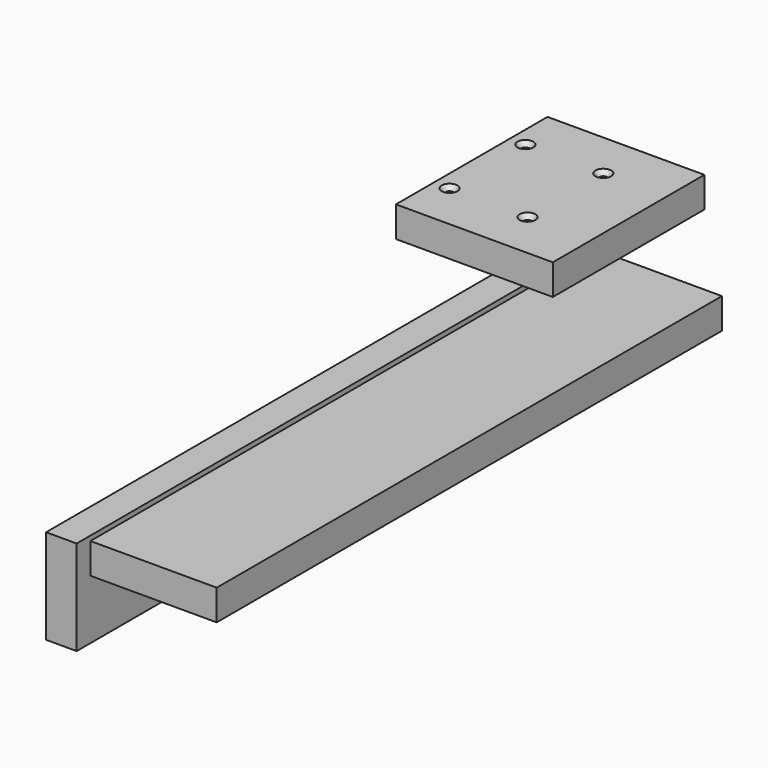
from build123d import *

# Parameters (mm, degrees)
F0_W           = 12.2936
F0_H           = 38.1
F0_W_2         = 50.8
F0_H_2         = 12.2936
F1_DEPTH       = 254
F0_W_3         = 63.0936
F2_DEPTH       = 76.2
F4_D           = 3.175
F4_DEPTH       = 12.7
F4_CSINK_D     = 6.35
F4_CSINK_ANGLE = 82
F6_D           = 3.175
F6_DEPTH       = 12.7
F6_CSINK_D     = 6.35
F6_CSINK_ANGLE = 82


with BuildPart() as f1:
    # F0 (on Front) → F1 (new body)
    with BuildSketch(Plane.XZ):
        with Locations((-34.314467, -21.732634)):
            Rectangle(F0_W, F0_H)
        with Locations((2.762182, -6.1468)):
            Rectangle(F0_W_2, F0_H_2)
    extrude(amount=F1_DEPTH)

    # F4
    with Locations(Plane(origin=(-40.461267, 0, 0), x_dir=(0, -1, 0), z_dir=(-1, 0, 0))):
        with Locations((25.4, -9.837061), (76.2, -9.837061), (127, -9.837061), (177.8, -9.837061), (228.6, -9.837061)):
            CounterSinkHole(F4_D / 2, F4_CSINK_D / 2, depth=F4_DEPTH, counter_sink_angle=F4_CSINK_ANGLE)


with BuildPart() as f2:
    # F0 (on Front) → F2 (new body)
    with BuildSketch(Plane.XZ):
        with Locations((-10.445492, 34.487276)):
            Rectangle(F0_W_3, F0_H_2)
    extrude(amount=F2_DEPTH)

    # F6
    with Locations(Plane.XY.offset(40.634076)):
        with Locations((-4.298692, -19.05), (-4.298692, -57.15), (-35.642292, -19.05), (-35.642292, -57.15)):
            CounterSinkHole(F6_D / 2, F6_CSINK_D / 2, depth=F6_DEPTH, counter_sink_angle=F6_CSINK_ANGLE)


solid = Compound([f1.part, f2.part])
